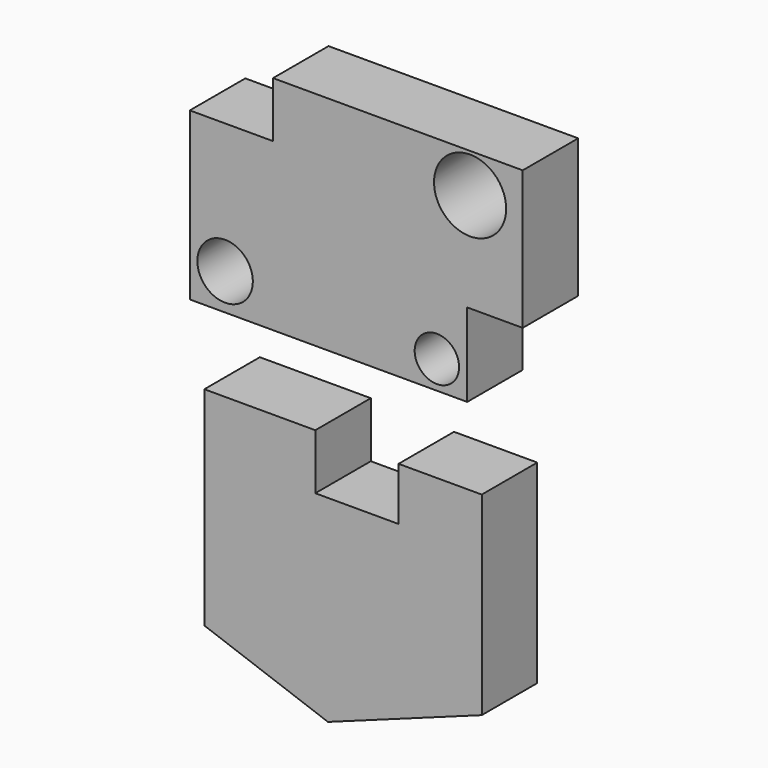
from build123d import *

# Parameters (mm, degrees)
F0_R     = 10
F0_R_2   = 8
F0_R_3   = 13
F1_DEPTH = 25


with BuildPart() as f1:
    # F0 (on Front) → F1 (new body)
    with BuildSketch(Plane.XZ):
        Polygon((33.303134, 87.690247), (33.303134, 27.690247), (133.303134, 27.690247), (133.303134, 57.690247), (153.303134, 57.690247), (153.303134, 107.690247), (63.303134, 107.690247), (63.303134, 87.690247), align=None)
        with Locations((46.025679, 40.786985)):
            Circle(F0_R, mode=Mode.SUBTRACT)
        with Locations((122.360945, 37.793443)):
            Circle(F0_R_2, mode=Mode.SUBTRACT)
        with Locations((134.335116, 93.548127)):
            Circle(F0_R_3, mode=Mode.SUBTRACT)
        Polygon((38.541827, 0.909884), (38.541827, -74.090116), (83.099963, -90.179188), (138.541827, -70), (138.541827, 0), (108.541827, 0), (108.541827, -19.090116), (78.541827, -19.090116), (78.541827, 0.909884), align=None)
    extrude(amount=F1_DEPTH)


solid = f1.part
